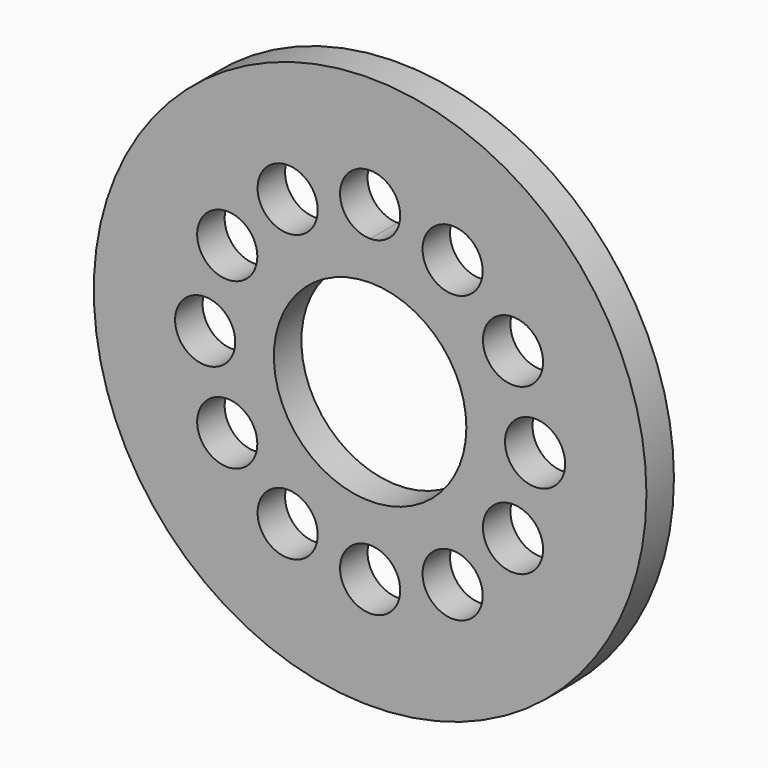
from build123d import *

# Parameters (mm, degrees)
F0_R     = 25.527
F0_R_2   = 2.778125
F1_DEPTH = 3.175


with BuildPart() as f1:
    # F0 (on Front) → F1 (new body)
    with BuildSketch(Plane.XZ):
        Circle(F0_R)
        with Locations((-7.62, -13.1982271537)):
            Circle(F0_R_2, mode=Mode.SUBTRACT)
        with Locations((-13.1982271537, -7.62)):
            Circle(F0_R_2, mode=Mode.SUBTRACT)
        with Locations((0, -15.24)):
            Circle(F0_R_2, mode=Mode.SUBTRACT)
        with Locations((7.62, -13.1982271537)):
            Circle(F0_R_2, mode=Mode.SUBTRACT)
        with Locations((13.1982271537, -7.62)):
            Circle(F0_R_2, mode=Mode.SUBTRACT)
        with Locations((-15.24, 0)):
            Circle(F0_R_2, mode=Mode.SUBTRACT)
        with Locations((-13.1982271537, 7.62)):
            Circle(F0_R_2, mode=Mode.SUBTRACT)
        with Locations((-7.62, 13.1982271537)):
            Circle(F0_R_2, mode=Mode.SUBTRACT)
        with BuildLine():
            ThreePointArc((8.89, 0), (-6.2861792847, -6.2861792847), (0, 8.89))
            ThreePointArc((0, 8.89), (6.2861792847, 6.2861792847), (8.89, 0))
        make_face(mode=Mode.SUBTRACT)
        with Locations((15.24, 0)):
            Circle(F0_R_2, mode=Mode.SUBTRACT)
        with Locations((13.1982271537, 7.62)):
            Circle(F0_R_2, mode=Mode.SUBTRACT)
        with BuildLine():
            ThreePointArc((0, 12.461875), (-1.9644310265, 17.2044310265), (2.778125, 15.24))
            ThreePointArc((2.778125, 15.24), (1.9644310265, 13.2755689735), (0, 12.461875))
        make_face(mode=Mode.SUBTRACT)
        with Locations((7.62, 13.1982271537)):
            Circle(F0_R_2, mode=Mode.SUBTRACT)
    extrude(amount=F1_DEPTH)


solid = f1.part
